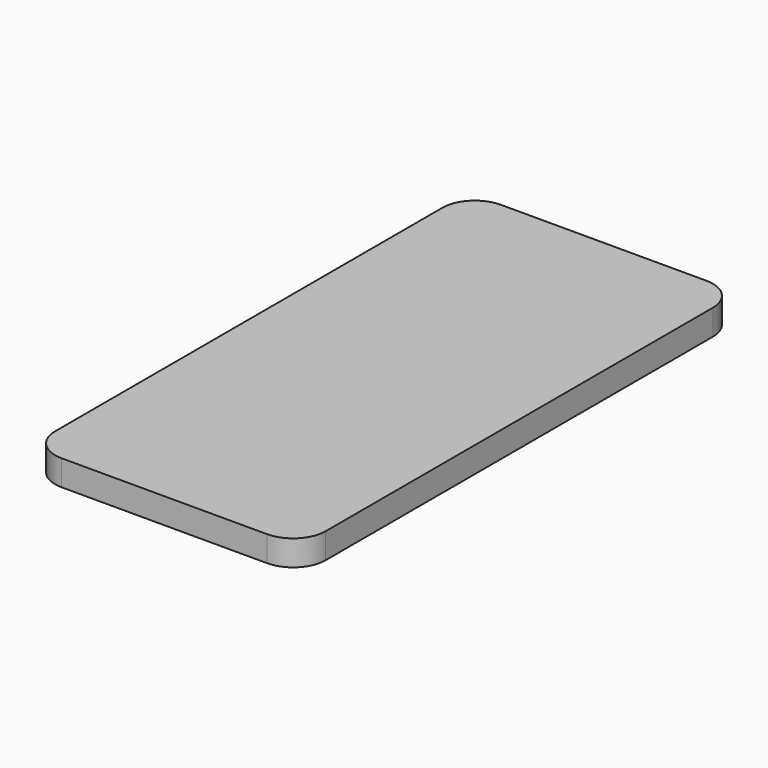
from build123d import *

# Parameters (mm, degrees)
F0_W     = 77.978
F0_H     = 158.242
F1_DEPTH = 3.683
F2_R     = 9.3726


with BuildPart() as f1:
    # F0 (on Top) → F1 (new body, symmetric)
    with BuildSketch(Plane.XY):
        Rectangle(F0_W, F0_H)
    extrude(amount=F1_DEPTH, both=True)

    # F2
    f2_edges = [f1.edges().sort_by_distance(p)[0] for p in [
        (-38.989, 79.121, 0),
        (38.989, 79.121, 0),
        (38.989, -79.121, 0),
        (-38.989, -79.121, 0),
    ]]
    fillet(f2_edges, radius=F2_R)


solid = f1.part
